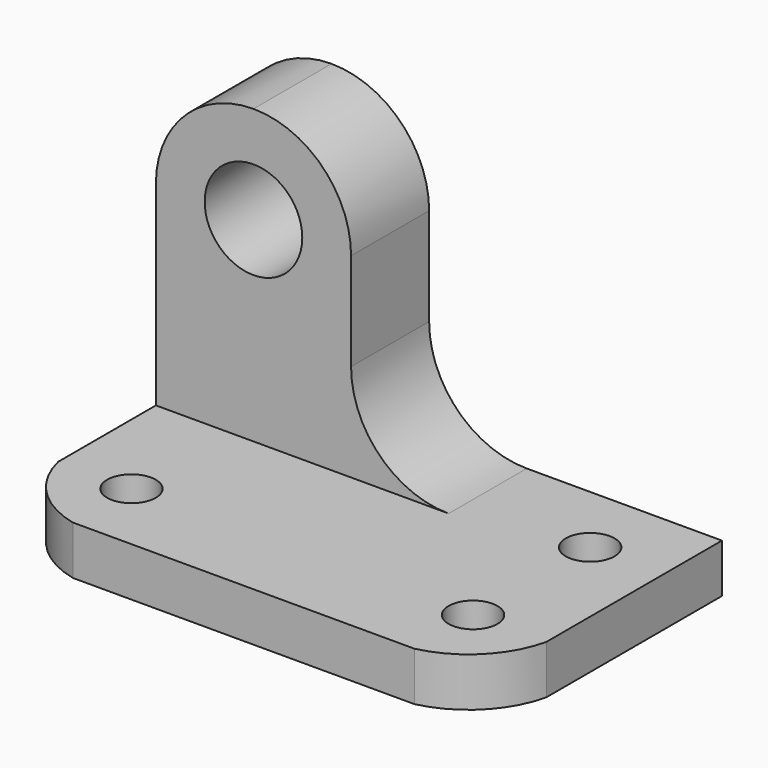
from build123d import *

# Parameters (mm, degrees)
F0_W     = 63.5
F0_H     = 44.45
F1_DEPTH = 38.1
F2_W     = 63.5
F2_H     = 38.1
F3_DEPTH = 25.4
F4_R     = 6.35
F5_DEPTH = 12.7
F6_R     = 3.175
F7_DEPTH = 6.35


with BuildPart() as f1:
    # F0 (on Front) → F1 (new body)
    with BuildSketch(Plane.XZ):
        with Locations((-3.8195736706, 7.3665864387)):
            Rectangle(F0_W, F0_H)
    extrude(amount=F1_DEPTH)

    # F2 (on face) → F3 (cut)
    with BuildSketch(Plane.XZ.offset(38.1)):
        with Locations((-3.8195736706, 10.5415864387)):
            Rectangle(F2_W, F2_H)
    extrude(amount=-F3_DEPTH, mode=Mode.SUBTRACT)

    # F4 (on face) → F5 (cut)
    with BuildSketch(Plane.XZ.offset(12.7)):
        with BuildLine():
            Line((-35.5695736706, 29.5915864387), (-35.5695736706, 16.8915864387))
            ThreePointArc((-35.5695736706, 16.8915864387), (-31.8498297917, 25.8718425598), (-22.8695736706, 29.5915864387))
            Line((-22.8695736706, 29.5915864387), (-35.5695736706, 29.5915864387))
        make_face()
        with BuildLine():
            ThreePointArc((-10.1695736706, 4.1915864387), (-6.4498297917, -4.7886696824), (2.5304263294, -8.5084135613))
            Line((2.5304263294, -8.5084135613), (27.9304263294, -8.5084135613))
            Line((27.9304263294, -8.5084135613), (27.9304263294, 29.5915864387))
            Line((27.9304263294, 29.5915864387), (-22.8695736706, 29.5915864387))
            ThreePointArc((-22.8695736706, 29.5915864387), (-13.8893175496, 25.8718425598), (-10.1695736706, 16.8915864387))
            Line((-10.1695736706, 16.8915864387), (-10.1695736706, 4.1915864387))
        make_face()
        with Locations((-22.8695736706, 16.8915864387)):
            Circle(F4_R)
    extrude(amount=-F5_DEPTH, mode=Mode.SUBTRACT)

    # F6 (on face) → F7 (cut)
    with BuildSketch(Plane.XY.offset(-8.5084135613)):
        with Locations((18.4054263294, -9.525)):
            Circle(F6_R)
        with Locations((18.4054263294, -28.575)):
            Circle(F6_R)
        with Locations((-26.0445736706, -28.575)):
            Circle(F6_R)
        with BuildLine():
            Line((-35.5695736706, -38.1), (-26.0445736706, -38.1))
            ThreePointArc((-26.0445736706, -38.1), (-32.1739472484, -34.7043735778), (-35.5695736706, -28.575))
            Line((-35.5695736706, -28.575), (-35.5695736706, -38.1))
        make_face()
        with BuildLine():
            ThreePointArc((27.9304263294, -28.575), (24.5347999072, -34.7043735778), (18.4054263294, -38.1))
            Line((18.4054263294, -38.1), (27.9304263294, -38.1))
            Line((27.9304263294, -38.1), (27.9304263294, -28.575))
        make_face()
    extrude(amount=-F7_DEPTH, mode=Mode.SUBTRACT)


solid = f1.part
